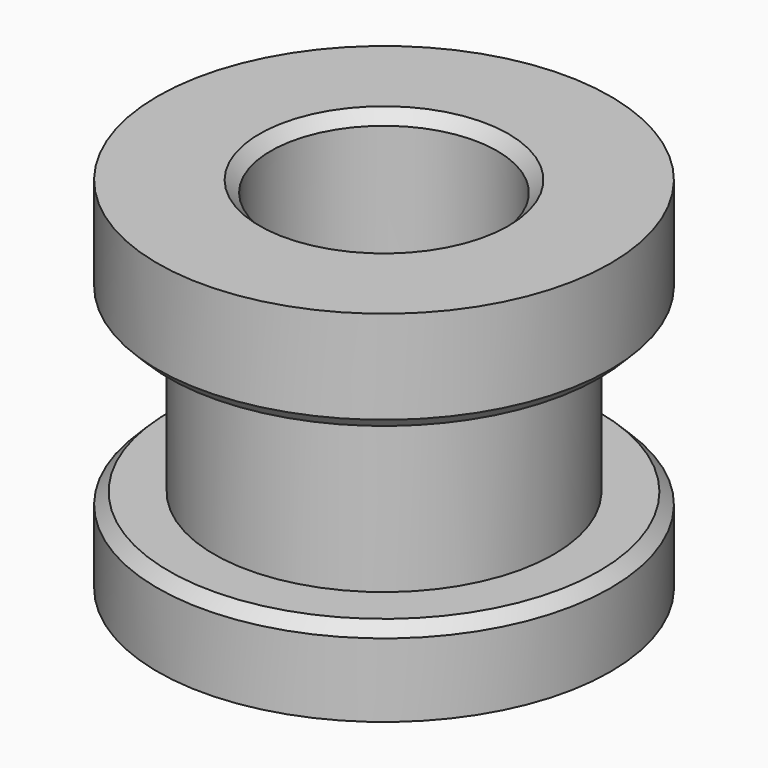
from build123d import *

# Parameters (mm, degrees)
F2_SIZE = 0.4


with BuildPart() as f1:
    # F0 (on Front) → F1 (revolve)
    with BuildSketch(Plane.XZ):
        Polygon((8, 3), (8, 6.7), (4, 6.7), (4, -6), (8, -6), (8, -3), (6, -3), (6, 3), align=None)
    revolve(axis=Axis((0, 0, 0), (0, 0, 1)))

    # F2
    f2_edges = [f1.edges().sort_by_distance(p)[0] for p in [
        (-8, 0, 3),
        (-8, 0, -3),
        (-4, 0, 6.7),
    ]]
    chamfer(f2_edges, length=F2_SIZE)


solid = f1.part
